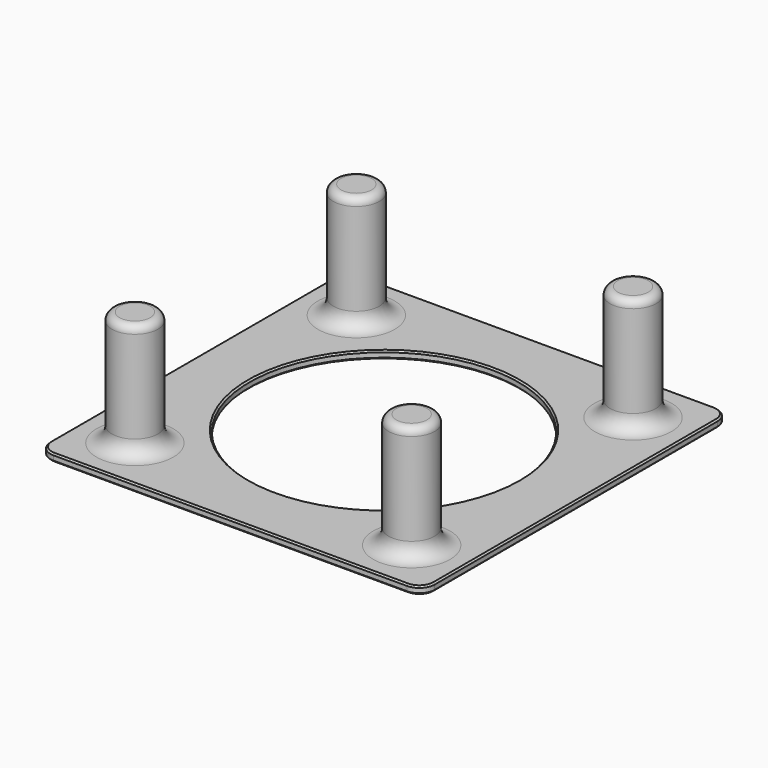
from build123d import *

# Parameters (mm, degrees)
F0_W     = 50
F0_H     = 50
F0_R     = 3
F0_R_2   = 17.5
F1_DEPTH = 1
F2_R     = 2
F3_DEPTH = 16
F4_SIZE  = 0.2
F5_R     = 1
F6_R     = 2


with BuildPart() as f1:
    # F0 (on Top) → F1 (new body)
    with BuildSketch(Plane.XY):
        Rectangle(F0_W, F0_H)
        with Locations((-18, -18)):
            Circle(F0_R, mode=Mode.SUBTRACT)
        with Locations((18, -18)):
            Circle(F0_R, mode=Mode.SUBTRACT)
        with Locations((-18, 18)):
            Circle(F0_R, mode=Mode.SUBTRACT)
        Circle(F0_R_2, mode=Mode.SUBTRACT)
        with Locations((18, 18)):
            Circle(F0_R, mode=Mode.SUBTRACT)
        with Locations((-18, 18)):
            Circle(F0_R)
        with Locations((-18, -18)):
            Circle(F0_R)
        with Locations((18, -18)):
            Circle(F0_R)
        with Locations((18, 18)):
            Circle(F0_R)
    extrude(amount=F1_DEPTH)

    # F2
    f2_edges = [f1.edges().sort_by_distance(p)[0] for p in [
        (-25, -25, 0.5),
        (25, -25, 0.5),
        (25, 25, 0.5),
        (-25, 25, 0.5),
    ]]
    fillet(f2_edges, radius=F2_R)

    # F0 (on Top) → F3 (join)
    with BuildSketch(Plane.XY):
        with Locations((-18, -18)):
            Circle(F0_R)
        with Locations((-18, 18)):
            Circle(F0_R)
        with Locations((18, 18)):
            Circle(F0_R)
        with Locations((18, -18)):
            Circle(F0_R)
    extrude(amount=F3_DEPTH)

    # F4
    f4_edges = [f1.edges().sort_by_distance(p)[0] for p in [
        (25, 0, 0),
        (24.414214, 24.414214, 0),
        (0, 25, 0),
        (-24.414214, 24.414214, 0),
        (-25, 0, 0),
        (-24.414214, -24.414214, 0),
        (0, -25, 0),
        (24.414214, -24.414214, 0),
        (-17.5, 0, 0),
        (-17.5, 0, 1),
        (25, 0, 1),
    ]]
    chamfer(f4_edges, length=F4_SIZE)

    # F5
    f5_edges = [f1.edges().sort_by_distance(p)[0] for p in [
        (15, -18, 16),
        (-21, -18, 16),
        (-21, 18, 16),
        (15, 18, 16),
    ]]
    fillet(f5_edges, radius=F5_R)

    # F6
    f6_edges = [f1.edges().sort_by_distance(p)[0] for p in [
        (-21, -18, 1),
        (15, -18, 1),
        (-21, 18, 1),
        (15, 18, 1),
    ]]
    fillet(f6_edges, radius=F6_R)


solid = f1.part
